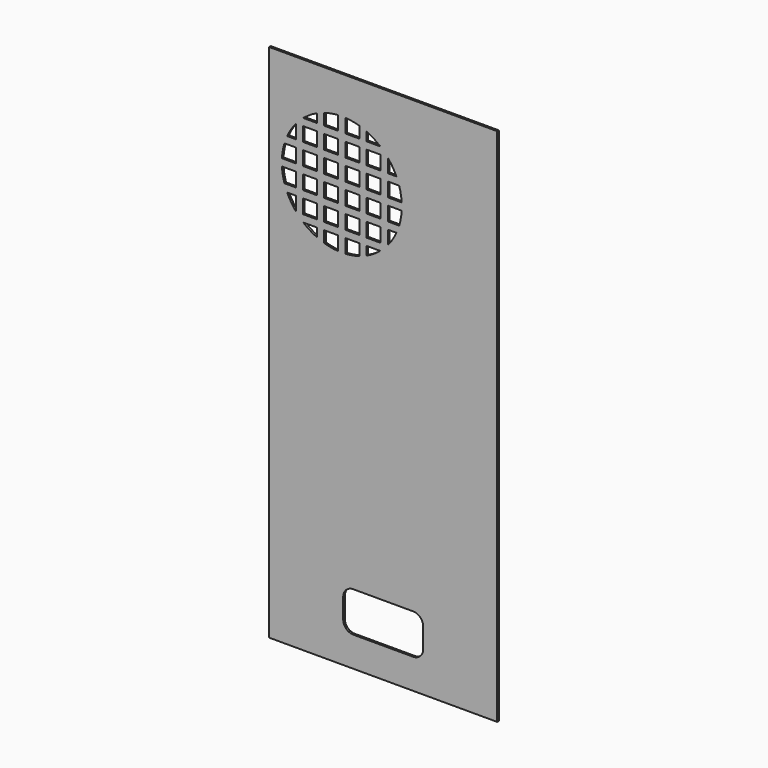
from build123d import *

# Parameters (mm, degrees)
F0_W     = 114
F0_H     = 260
F0_W_2   = 7
F0_H_2   = 7
F1_DEPTH = 1


with BuildPart() as f1:
    # F0 (on Front) → F1 (new body)
    with BuildSketch(Plane.XZ):
        with Locations((-30.721168, 70.096179)):
            Rectangle(F0_W, F0_H)
        with BuildLine():
            ThreePointArc((-50.721168, -29.903821), (-49.256702, -26.368287), (-45.721168, -24.903821))
            Line((-45.721168, -24.903821), (-15.721168, -24.903821))
            ThreePointArc((-15.721168, -24.903821), (-12.185634, -26.368287), (-10.721168, -29.903821))
            Line((-10.721168, -29.903821), (-10.721168, -39.903821))
            ThreePointArc((-10.721168, -39.903821), (-12.185634, -43.439354), (-15.721168, -44.903821))
            Line((-15.721168, -44.903821), (-45.721168, -44.903821))
            ThreePointArc((-45.721168, -44.903821), (-49.256702, -43.439354), (-50.721168, -39.903821))
            Line((-50.721168, -39.903821), (-50.721168, -29.903821))
        make_face(mode=Mode.SUBTRACT)
        with Locations((-77.921168, 114.296179)):
            Rectangle(F0_W_2, F0_H_2, mode=Mode.SUBTRACT)
        with Locations((-77.921168, 124.896179)):
            Rectangle(F0_W_2, F0_H_2, mode=Mode.SUBTRACT)
        with Locations((-67.321168, 114.296179)):
            Rectangle(F0_W_2, F0_H_2, mode=Mode.SUBTRACT)
        with Locations((-56.721168, 114.296179)):
            Rectangle(F0_W_2, F0_H_2, mode=Mode.SUBTRACT)
        with Locations((-46.121168, 114.296179)):
            Rectangle(F0_W_2, F0_H_2, mode=Mode.SUBTRACT)
        with Locations((-35.521168, 114.296179)):
            Rectangle(F0_W_2, F0_H_2, mode=Mode.SUBTRACT)
        with Locations((-77.921168, 177.896179)):
            Rectangle(F0_W_2, F0_H_2, mode=Mode.SUBTRACT)
        with BuildLine():
            ThreePointArc((-21.475216, 153.196179), (-21.434683, 152.296585), (-21.421168, 151.396179))
            ThreePointArc((-21.421168, 151.396179), (-21.434683, 150.495774), (-21.475216, 149.596179))
            Line((-21.475216, 149.596179), (-21.421168, 149.596179))
            Line((-21.421168, 149.596179), (-21.421168, 142.596179))
            Line((-21.421168, 142.596179), (-22.740861, 142.596179))
            ThreePointArc((-22.740861, 142.596179), (-23.364518, 140.774297), (-24.103774, 138.996179))
            Line((-24.103774, 138.996179), (-21.421168, 138.996179))
            Line((-21.421168, 138.996179), (-21.421168, 131.996179))
            Line((-21.421168, 131.996179), (-28.421168, 131.996179))
            Line((-28.421168, 131.996179), (-28.421168, 132.134819))
            ThreePointArc((-28.421168, 132.134819), (-30.207964, 130.182976), (-32.159807, 128.396179))
            Line((-32.159807, 128.396179), (-32.021168, 128.396179))
            Line((-32.021168, 128.396179), (-32.021168, 121.396179))
            Line((-32.021168, 121.396179), (-39.021168, 121.396179))
            Line((-39.021168, 121.396179), (-39.021168, 124.078786))
            ThreePointArc((-39.021168, 124.078786), (-40.799286, 123.339529), (-42.621168, 122.715873))
            Line((-42.621168, 122.715873), (-42.621168, 121.396179))
            Line((-42.621168, 121.396179), (-49.621168, 121.396179))
            Line((-49.621168, 121.396179), (-49.621168, 121.450228))
            ThreePointArc((-49.621168, 121.450228), (-51.421168, 121.396179), (-53.221168, 121.450228))
            Line((-53.221168, 121.450228), (-53.221168, 121.396179))
            Line((-53.221168, 121.396179), (-60.221168, 121.396179))
            Line((-60.221168, 121.396179), (-60.221168, 122.715873))
            ThreePointArc((-60.221168, 122.715873), (-62.04305, 123.339529), (-63.821168, 124.078786))
            Line((-63.821168, 124.078786), (-63.821168, 121.396179))
            Line((-63.821168, 121.396179), (-70.821168, 121.396179))
            Line((-70.821168, 121.396179), (-70.821168, 128.396179))
            Line((-70.821168, 128.396179), (-70.682528, 128.396179))
            ThreePointArc((-70.682528, 128.396179), (-72.634371, 130.182976), (-74.421168, 132.134819))
            Line((-74.421168, 132.134819), (-74.421168, 131.996179))
            Line((-74.421168, 131.996179), (-81.421168, 131.996179))
            Line((-81.421168, 131.996179), (-81.421168, 138.996179))
            Line((-81.421168, 138.996179), (-78.738562, 138.996179))
            ThreePointArc((-78.738562, 138.996179), (-79.477818, 140.774297), (-80.101475, 142.596179))
            Line((-80.101475, 142.596179), (-81.421168, 142.596179))
            Line((-81.421168, 142.596179), (-81.421168, 149.596179))
            Line((-81.421168, 149.596179), (-81.367119, 149.596179))
            ThreePointArc((-81.367119, 149.596179), (-81.421168, 151.396179), (-81.367119, 153.196179))
            Line((-81.367119, 153.196179), (-81.421168, 153.196179))
            Line((-81.421168, 153.196179), (-81.421168, 160.196179))
            Line((-81.421168, 160.196179), (-80.101475, 160.196179))
            ThreePointArc((-80.101475, 160.196179), (-79.477818, 162.018062), (-78.738562, 163.796179))
            Line((-78.738562, 163.796179), (-81.421168, 163.796179))
            Line((-81.421168, 163.796179), (-81.421168, 170.796179))
            Line((-81.421168, 170.796179), (-74.421168, 170.796179))
            Line((-74.421168, 170.796179), (-74.421168, 170.65754))
            ThreePointArc((-74.421168, 170.65754), (-72.634371, 172.609383), (-70.682528, 174.396179))
            Line((-70.682528, 174.396179), (-70.821168, 174.396179))
            Line((-70.821168, 174.396179), (-70.821168, 181.396179))
            Line((-70.821168, 181.396179), (-63.821168, 181.396179))
            Line((-63.821168, 181.396179), (-63.821168, 178.713573))
            ThreePointArc((-63.821168, 178.713573), (-62.04305, 179.45283), (-60.221168, 180.076486))
            Line((-60.221168, 180.076486), (-60.221168, 181.396179))
            Line((-60.221168, 181.396179), (-53.221168, 181.396179))
            Line((-53.221168, 181.396179), (-53.221168, 181.342131))
            ThreePointArc((-53.221168, 181.342131), (-51.421168, 181.396179), (-49.621168, 181.342131))
            Line((-49.621168, 181.342131), (-49.621168, 181.396179))
            Line((-49.621168, 181.396179), (-42.621168, 181.396179))
            Line((-42.621168, 181.396179), (-42.621168, 180.076486))
            ThreePointArc((-42.621168, 180.076486), (-40.799286, 179.45283), (-39.021168, 178.713573))
            Line((-39.021168, 178.713573), (-39.021168, 181.396179))
            Line((-39.021168, 181.396179), (-32.021168, 181.396179))
            Line((-32.021168, 181.396179), (-32.021168, 174.396179))
            Line((-32.021168, 174.396179), (-32.159807, 174.396179))
            ThreePointArc((-32.159807, 174.396179), (-30.207964, 172.609383), (-28.421168, 170.65754))
            Line((-28.421168, 170.65754), (-28.421168, 170.796179))
            Line((-28.421168, 170.796179), (-21.421168, 170.796179))
            Line((-21.421168, 170.796179), (-21.421168, 163.796179))
            Line((-21.421168, 163.796179), (-24.103774, 163.796179))
            ThreePointArc((-24.103774, 163.796179), (-23.364518, 162.018062), (-22.740861, 160.196179))
            Line((-22.740861, 160.196179), (-21.421168, 160.196179))
            Line((-21.421168, 160.196179), (-21.421168, 153.196179))
            Line((-21.421168, 153.196179), (-21.475216, 153.196179))
        make_face(mode=Mode.SUBTRACT)
        with Locations((-24.921168, 114.296179)):
            Rectangle(F0_W_2, F0_H_2, mode=Mode.SUBTRACT)
        with Locations((-24.921168, 124.896179)):
            Rectangle(F0_W_2, F0_H_2, mode=Mode.SUBTRACT)
        with Locations((-14.321168, 114.296179)):
            Rectangle(F0_W_2, F0_H_2, mode=Mode.SUBTRACT)
        with Locations((-14.321168, 124.896179)):
            Rectangle(F0_W_2, F0_H_2, mode=Mode.SUBTRACT)
        with Locations((-14.321168, 135.496179)):
            Rectangle(F0_W_2, F0_H_2, mode=Mode.SUBTRACT)
        with Locations((-14.321168, 146.096179)):
            Rectangle(F0_W_2, F0_H_2, mode=Mode.SUBTRACT)
        with Locations((-14.321168, 156.696179)):
            Rectangle(F0_W_2, F0_H_2, mode=Mode.SUBTRACT)
        with Locations((-14.321168, 167.296179)):
            Rectangle(F0_W_2, F0_H_2, mode=Mode.SUBTRACT)
        with Locations((-24.921168, 177.896179)):
            Rectangle(F0_W_2, F0_H_2, mode=Mode.SUBTRACT)
        with Locations((-14.321168, 177.896179)):
            Rectangle(F0_W_2, F0_H_2, mode=Mode.SUBTRACT)
        with BuildLine():
            ThreePointArc((-21.475216, 149.596179), (-21.434683, 150.495774), (-21.421168, 151.396179))
            ThreePointArc((-21.421168, 151.396179), (-21.434683, 152.296585), (-21.475216, 153.196179))
            Line((-21.475216, 153.196179), (-28.421168, 153.196179))
            Line((-28.421168, 153.196179), (-28.421168, 160.196179))
            Line((-28.421168, 160.196179), (-22.740861, 160.196179))
            ThreePointArc((-22.740861, 160.196179), (-23.364518, 162.018062), (-24.103774, 163.796179))
            Line((-24.103774, 163.796179), (-28.421168, 163.796179))
            Line((-28.421168, 163.796179), (-28.421168, 170.65754))
            ThreePointArc((-28.421168, 170.65754), (-30.207964, 172.609383), (-32.159807, 174.396179))
            Line((-32.159807, 174.396179), (-39.021168, 174.396179))
            Line((-39.021168, 174.396179), (-39.021168, 178.713573))
            ThreePointArc((-39.021168, 178.713573), (-40.799286, 179.45283), (-42.621168, 180.076486))
            Line((-42.621168, 180.076486), (-42.621168, 174.396179))
            Line((-42.621168, 174.396179), (-49.621168, 174.396179))
            Line((-49.621168, 174.396179), (-49.621168, 181.342131))
            ThreePointArc((-49.621168, 181.342131), (-51.421168, 181.396179), (-53.221168, 181.342131))
            Line((-53.221168, 181.342131), (-53.221168, 174.396179))
            Line((-53.221168, 174.396179), (-60.221168, 174.396179))
            Line((-60.221168, 174.396179), (-60.221168, 180.076486))
            ThreePointArc((-60.221168, 180.076486), (-62.04305, 179.45283), (-63.821168, 178.713573))
            Line((-63.821168, 178.713573), (-63.821168, 174.396179))
            Line((-63.821168, 174.396179), (-70.682528, 174.396179))
            ThreePointArc((-70.682528, 174.396179), (-72.634371, 172.609383), (-74.421168, 170.65754))
            Line((-74.421168, 170.65754), (-74.421168, 163.796179))
            Line((-74.421168, 163.796179), (-78.738562, 163.796179))
            ThreePointArc((-78.738562, 163.796179), (-79.477818, 162.018062), (-80.101475, 160.196179))
            Line((-80.101475, 160.196179), (-74.421168, 160.196179))
            Line((-74.421168, 160.196179), (-74.421168, 153.196179))
            Line((-74.421168, 153.196179), (-81.367119, 153.196179))
            ThreePointArc((-81.367119, 153.196179), (-81.421168, 151.396179), (-81.367119, 149.596179))
            Line((-81.367119, 149.596179), (-74.421168, 149.596179))
            Line((-74.421168, 149.596179), (-74.421168, 142.596179))
            Line((-74.421168, 142.596179), (-80.101475, 142.596179))
            ThreePointArc((-80.101475, 142.596179), (-79.477818, 140.774297), (-78.738562, 138.996179))
            Line((-78.738562, 138.996179), (-74.421168, 138.996179))
            Line((-74.421168, 138.996179), (-74.421168, 132.134819))
            ThreePointArc((-74.421168, 132.134819), (-72.634371, 130.182976), (-70.682528, 128.396179))
            Line((-70.682528, 128.396179), (-63.821168, 128.396179))
            Line((-63.821168, 128.396179), (-63.821168, 124.078786))
            ThreePointArc((-63.821168, 124.078786), (-62.04305, 123.339529), (-60.221168, 122.715873))
            Line((-60.221168, 122.715873), (-60.221168, 128.396179))
            Line((-60.221168, 128.396179), (-53.221168, 128.396179))
            Line((-53.221168, 128.396179), (-53.221168, 121.450228))
            ThreePointArc((-53.221168, 121.450228), (-51.421168, 121.396179), (-49.621168, 121.450228))
            Line((-49.621168, 121.450228), (-49.621168, 128.396179))
            Line((-49.621168, 128.396179), (-42.621168, 128.396179))
            Line((-42.621168, 128.396179), (-42.621168, 122.715873))
            ThreePointArc((-42.621168, 122.715873), (-40.799286, 123.339529), (-39.021168, 124.078786))
            Line((-39.021168, 124.078786), (-39.021168, 128.396179))
            Line((-39.021168, 128.396179), (-32.159807, 128.396179))
            ThreePointArc((-32.159807, 128.396179), (-30.207964, 130.182976), (-28.421168, 132.134819))
            Line((-28.421168, 132.134819), (-28.421168, 138.996179))
            Line((-28.421168, 138.996179), (-24.103774, 138.996179))
            ThreePointArc((-24.103774, 138.996179), (-23.364518, 140.774297), (-22.740861, 142.596179))
            Line((-22.740861, 142.596179), (-28.421168, 142.596179))
            Line((-28.421168, 142.596179), (-28.421168, 149.596179))
            Line((-28.421168, 149.596179), (-21.475216, 149.596179))
        make_face()
        with Locations((-67.321168, 135.496179)):
            Rectangle(F0_W_2, F0_H_2, mode=Mode.SUBTRACT)
        with Locations((-67.321168, 146.096179)):
            Rectangle(F0_W_2, F0_H_2, mode=Mode.SUBTRACT)
        with Locations((-67.321168, 156.696179)):
            Rectangle(F0_W_2, F0_H_2, mode=Mode.SUBTRACT)
        with Locations((-67.321168, 167.296179)):
            Rectangle(F0_W_2, F0_H_2, mode=Mode.SUBTRACT)
        with Locations((-56.721168, 135.496179)):
            Rectangle(F0_W_2, F0_H_2, mode=Mode.SUBTRACT)
        with Locations((-56.721168, 146.096179)):
            Rectangle(F0_W_2, F0_H_2, mode=Mode.SUBTRACT)
        with Locations((-46.121168, 135.496179)):
            Rectangle(F0_W_2, F0_H_2, mode=Mode.SUBTRACT)
        with Locations((-46.121168, 146.096179)):
            Rectangle(F0_W_2, F0_H_2, mode=Mode.SUBTRACT)
        with Locations((-56.721168, 156.696179)):
            Rectangle(F0_W_2, F0_H_2, mode=Mode.SUBTRACT)
        with Locations((-56.721168, 167.296179)):
            Rectangle(F0_W_2, F0_H_2, mode=Mode.SUBTRACT)
        with Locations((-46.121168, 156.696179)):
            Rectangle(F0_W_2, F0_H_2, mode=Mode.SUBTRACT)
        with Locations((-46.121168, 167.296179)):
            Rectangle(F0_W_2, F0_H_2, mode=Mode.SUBTRACT)
        with Locations((-35.521168, 135.496179)):
            Rectangle(F0_W_2, F0_H_2, mode=Mode.SUBTRACT)
        with Locations((-35.521168, 146.096179)):
            Rectangle(F0_W_2, F0_H_2, mode=Mode.SUBTRACT)
        with Locations((-35.521168, 156.696179)):
            Rectangle(F0_W_2, F0_H_2, mode=Mode.SUBTRACT)
        with Locations((-35.521168, 167.296179)):
            Rectangle(F0_W_2, F0_H_2, mode=Mode.SUBTRACT)
        with Locations((-77.921168, 177.896179)):
            Rectangle(F0_W_2, F0_H_2)
        with BuildLine():
            ThreePointArc((-70.682528, 174.396179), (-67.398352, 176.787706), (-63.821168, 178.713573))
            Line((-63.821168, 178.713573), (-63.821168, 181.396179))
            Line((-63.821168, 181.396179), (-70.821168, 181.396179))
            Line((-70.821168, 181.396179), (-70.821168, 174.396179))
            Line((-70.821168, 174.396179), (-70.682528, 174.396179))
        make_face()
        with BuildLine():
            ThreePointArc((-78.738562, 163.796179), (-76.812694, 167.373363), (-74.421168, 170.65754))
            Line((-74.421168, 170.65754), (-74.421168, 170.796179))
            Line((-74.421168, 170.796179), (-81.421168, 170.796179))
            Line((-81.421168, 170.796179), (-81.421168, 163.796179))
            Line((-81.421168, 163.796179), (-78.738562, 163.796179))
        make_face()
        with BuildLine():
            Line((-74.421168, 131.996179), (-74.421168, 132.134819))
            ThreePointArc((-74.421168, 132.134819), (-76.812694, 135.418996), (-78.738562, 138.996179))
            Line((-78.738562, 138.996179), (-81.421168, 138.996179))
            Line((-81.421168, 138.996179), (-81.421168, 131.996179))
            Line((-81.421168, 131.996179), (-74.421168, 131.996179))
        make_face()
        with Locations((-77.921168, 124.896179)):
            Rectangle(F0_W_2, F0_H_2)
        with Locations((-77.921168, 114.296179)):
            Rectangle(F0_W_2, F0_H_2)
        with BuildLine():
            Line((-63.821168, 121.396179), (-63.821168, 124.078786))
            ThreePointArc((-63.821168, 124.078786), (-67.398352, 126.004653), (-70.682528, 128.396179))
            Line((-70.682528, 128.396179), (-70.821168, 128.396179))
            Line((-70.821168, 128.396179), (-70.821168, 121.396179))
            Line((-70.821168, 121.396179), (-63.821168, 121.396179))
        make_face()
        with Locations((-67.321168, 114.296179)):
            Rectangle(F0_W_2, F0_H_2)
        with Locations((-56.721168, 114.296179)):
            Rectangle(F0_W_2, F0_H_2)
        with Locations((-46.121168, 114.296179)):
            Rectangle(F0_W_2, F0_H_2)
        with Locations((-35.521168, 114.296179)):
            Rectangle(F0_W_2, F0_H_2)
        with BuildLine():
            Line((-32.021168, 128.396179), (-32.159807, 128.396179))
            ThreePointArc((-32.159807, 128.396179), (-35.443984, 126.004653), (-39.021168, 124.078786))
            Line((-39.021168, 124.078786), (-39.021168, 121.396179))
            Line((-39.021168, 121.396179), (-32.021168, 121.396179))
            Line((-32.021168, 121.396179), (-32.021168, 128.396179))
        make_face()
        with Locations((-24.921168, 124.896179)):
            Rectangle(F0_W_2, F0_H_2)
        with Locations((-24.921168, 114.296179)):
            Rectangle(F0_W_2, F0_H_2)
        with Locations((-14.321168, 114.296179)):
            Rectangle(F0_W_2, F0_H_2)
        with Locations((-14.321168, 124.896179)):
            Rectangle(F0_W_2, F0_H_2)
        with Locations((-14.321168, 135.496179)):
            Rectangle(F0_W_2, F0_H_2)
        with BuildLine():
            Line((-21.421168, 138.996179), (-24.103774, 138.996179))
            ThreePointArc((-24.103774, 138.996179), (-26.029642, 135.418996), (-28.421168, 132.134819))
            Line((-28.421168, 132.134819), (-28.421168, 131.996179))
            Line((-28.421168, 131.996179), (-21.421168, 131.996179))
            Line((-21.421168, 131.996179), (-21.421168, 138.996179))
        make_face()
        with Locations((-14.321168, 146.096179)):
            Rectangle(F0_W_2, F0_H_2)
        with Locations((-14.321168, 156.696179)):
            Rectangle(F0_W_2, F0_H_2)
        with Locations((-14.321168, 167.296179)):
            Rectangle(F0_W_2, F0_H_2)
        with BuildLine():
            ThreePointArc((-28.421168, 170.65754), (-26.029642, 167.373363), (-24.103774, 163.796179))
            Line((-24.103774, 163.796179), (-21.421168, 163.796179))
            Line((-21.421168, 163.796179), (-21.421168, 170.796179))
            Line((-21.421168, 170.796179), (-28.421168, 170.796179))
            Line((-28.421168, 170.796179), (-28.421168, 170.65754))
        make_face()
        with Locations((-14.321168, 177.896179)):
            Rectangle(F0_W_2, F0_H_2)
        with Locations((-24.921168, 177.896179)):
            Rectangle(F0_W_2, F0_H_2)
        with BuildLine():
            ThreePointArc((-39.021168, 178.713573), (-35.443984, 176.787706), (-32.159807, 174.396179))
            Line((-32.159807, 174.396179), (-32.021168, 174.396179))
            Line((-32.021168, 174.396179), (-32.021168, 181.396179))
            Line((-32.021168, 181.396179), (-39.021168, 181.396179))
            Line((-39.021168, 181.396179), (-39.021168, 178.713573))
        make_face()
        with BuildLine():
            ThreePointArc((-60.221168, 180.076486), (-56.758814, 180.91752), (-53.221168, 181.342131))
            Line((-53.221168, 181.342131), (-53.221168, 181.396179))
            Line((-53.221168, 181.396179), (-60.221168, 181.396179))
            Line((-60.221168, 181.396179), (-60.221168, 180.076486))
        make_face()
        with BuildLine():
            ThreePointArc((-49.621168, 181.342131), (-46.083522, 180.91752), (-42.621168, 180.076486))
            Line((-42.621168, 180.076486), (-42.621168, 181.396179))
            Line((-42.621168, 181.396179), (-49.621168, 181.396179))
            Line((-49.621168, 181.396179), (-49.621168, 181.342131))
        make_face()
        with BuildLine():
            ThreePointArc((-22.740861, 160.196179), (-21.899827, 156.733825), (-21.475216, 153.196179))
            Line((-21.475216, 153.196179), (-21.421168, 153.196179))
            Line((-21.421168, 153.196179), (-21.421168, 160.196179))
            Line((-21.421168, 160.196179), (-22.740861, 160.196179))
        make_face()
        with BuildLine():
            Line((-21.421168, 149.596179), (-21.475216, 149.596179))
            ThreePointArc((-21.475216, 149.596179), (-21.899827, 146.058534), (-22.740861, 142.596179))
            Line((-22.740861, 142.596179), (-21.421168, 142.596179))
            Line((-21.421168, 142.596179), (-21.421168, 149.596179))
        make_face()
        with BuildLine():
            ThreePointArc((-81.367119, 153.196179), (-80.942508, 156.733825), (-80.101475, 160.196179))
            Line((-80.101475, 160.196179), (-81.421168, 160.196179))
            Line((-81.421168, 160.196179), (-81.421168, 153.196179))
            Line((-81.421168, 153.196179), (-81.367119, 153.196179))
        make_face()
        with BuildLine():
            Line((-81.421168, 142.596179), (-80.101475, 142.596179))
            ThreePointArc((-80.101475, 142.596179), (-80.942508, 146.058534), (-81.367119, 149.596179))
            Line((-81.367119, 149.596179), (-81.421168, 149.596179))
            Line((-81.421168, 149.596179), (-81.421168, 142.596179))
        make_face()
        with BuildLine():
            Line((-53.221168, 121.396179), (-53.221168, 121.450228))
            ThreePointArc((-53.221168, 121.450228), (-56.758814, 121.874839), (-60.221168, 122.715873))
            Line((-60.221168, 122.715873), (-60.221168, 121.396179))
            Line((-60.221168, 121.396179), (-53.221168, 121.396179))
        make_face()
        with BuildLine():
            Line((-42.621168, 121.396179), (-42.621168, 122.715873))
            ThreePointArc((-42.621168, 122.715873), (-46.083522, 121.874839), (-49.621168, 121.450228))
            Line((-49.621168, 121.450228), (-49.621168, 121.396179))
            Line((-49.621168, 121.396179), (-42.621168, 121.396179))
        make_face()
    extrude(amount=F1_DEPTH)


solid = f1.part
